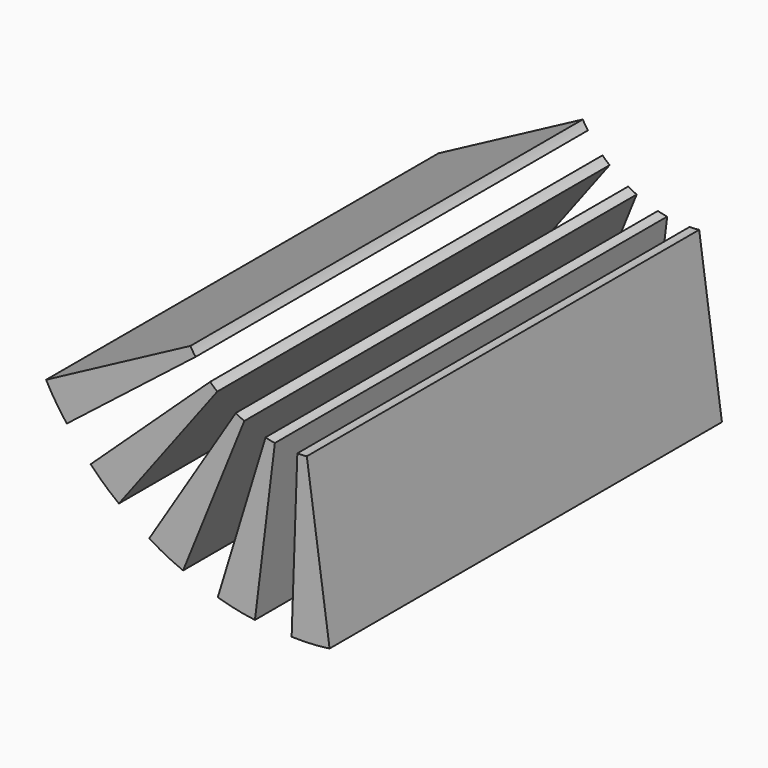
from build123d import *

# Parameters (mm, degrees)
BOX001027018_W               = 2
BOX001027018_H               = 20
BOX001027018_DEPTH           = 13
CYLINDER080_R                = 2
CYLINDER080_DEPTH            = 26
CYLINDER080_ROLL_ANGLE       = 90
CYLINDER081_R                = 8
CYLINDER081_DEPTH            = 18
CYLINDER081_ROLL_ANGLE       = 90
BOX001027017_W               = 13
BOX001027017_H               = 20
BOX001027017_DEPTH           = 2
BOX001027017_PLACEMENT_ANGLE = 80
COMMON024_PITCH_ANGLE        = 10
COMMON025_PLACEMENT_ANGLE    = 25
COMMON026_PITCH_ANGLE        = -20
COMMON027_PITCH_ANGLE        = -35
COMMON023_PITCH_ANGLE        = -5
FUSION086_PLACEMENT_ANGLE    = 207


with BuildPart() as cube038:
    # Box001027018 → Box001027018 (new body)
    with BuildSketch(Plane(origin=(0, -10, 0), x_dir=(1, 0, 0), z_dir=(0, 0, 1))):
        with Locations((1, 10)):
            Rectangle(BOX001027018_W, BOX001027018_H)
    extrude(amount=BOX001027018_DEPTH)


with BuildPart() as cylinder080:
    # Cylinder080 → Cylinder080 (new body)
    with BuildSketch(Plane.XY):
        Circle(CYLINDER080_R)
    extrude(amount=CYLINDER080_DEPTH)


with BuildPart() as cylinder080_1:
    # Cylinder080 roll: moved
    add(cylinder080.part.rotate(Axis((0, 0, 0), (1, 0, 0)), CYLINDER080_ROLL_ANGLE))


with BuildPart() as cylinder080_2:
    # Cylinder080 placement: moved
    add(cylinder080_1.part.moved(Location((0, 12, 0))))


with BuildPart() as cut044:
    # Cylinder081 → Cylinder081 (new body)
    with BuildSketch(Plane.XY):
        Circle(CYLINDER081_R)
    extrude(amount=CYLINDER081_DEPTH)


with BuildPart() as cut044_1:
    # Cylinder081 roll: moved
    add(cut044.part.rotate(Axis((0, 0, 0), (1, 0, 0)), CYLINDER081_ROLL_ANGLE))


with BuildPart() as cut044_2:
    # Cylinder081 placement: moved
    add(cut044_1.part.moved(Location((0, 9, 0))))

    # Cut044: cut Cylinder080
    add(cylinder080_2.part, mode=Mode.SUBTRACT)


with BuildPart() as cube037:
    # Box001027017 → Box001027017 (new body)
    with BuildSketch(Plane.XY):
        with Locations((6.5, 10)):
            Rectangle(BOX001027017_W, BOX001027017_H)
    extrude(amount=BOX001027017_DEPTH)


with BuildPart() as cube037_1:
    # Box001027017 placement: moved
    add(cube037.part.moved(Location((0, -10, 0))).rotate(Axis((0, -10, 0), (0, -1, 0)), BOX001027017_PLACEMENT_ANGLE))


with BuildPart() as common024:
    # Common024 base: copy of Cube037
    add(cube037_1.part)

    # Common024: intersect Cube038, Cut044
    add(cube038.part, mode=Mode.INTERSECT)
    add(cut044_2.part, mode=Mode.INTERSECT)


with BuildPart() as common024_1:
    # Common024 pitch: moved
    add(common024.part.rotate(Axis((0, 0, 0), (0, 1, 0)), COMMON024_PITCH_ANGLE))


with BuildPart() as common024_2:
    # Common024 placement: moved
    add(common024_1.part.moved(Location((0.647048, 0, 2.414815))))


with BuildPart() as common025:
    # Common025 base: copy of Cube037
    add(cube037_1.part)

    # Common025: intersect Cube038, Cut044
    add(cube038.part, mode=Mode.INTERSECT)
    add(cut044_2.part, mode=Mode.INTERSECT)


with BuildPart() as common025_1:
    # Common025 placement: moved
    add(common025.part.moved(Location((1.25, 0, 2.165064))).rotate(Axis((1.25, 0, 2.165064), (0, 1, 0)), COMMON025_PLACEMENT_ANGLE))


with BuildPart() as common026:
    # Common026 base: copy of Cube037
    add(cube037_1.part)

    # Common026: intersect Cube038, Cut044
    add(cube038.part, mode=Mode.INTERSECT)
    add(cut044_2.part, mode=Mode.INTERSECT)


with BuildPart() as common026_1:
    # Common026 pitch: moved
    add(common026.part.rotate(Axis((0, 0, 0), (0, 1, 0)), COMMON026_PITCH_ANGLE))


with BuildPart() as common026_2:
    # Common026 placement: moved
    add(common026_1.part.moved(Location((-0.647048, 0, 2.414815))))


with BuildPart() as common027:
    # Common027 base: copy of Cube037
    add(cube037_1.part)

    # Common027: intersect Cube038, Cut044
    add(cube038.part, mode=Mode.INTERSECT)
    add(cut044_2.part, mode=Mode.INTERSECT)


with BuildPart() as common027_1:
    # Common027 pitch: moved
    add(common027.part.rotate(Axis((0, 0, 0), (0, 1, 0)), COMMON027_PITCH_ANGLE))


with BuildPart() as common027_2:
    # Common027 placement: moved
    add(common027_1.part.moved(Location((-1.25, 0, 2.165064))))


with BuildPart() as strength_slots005:
    # Common023 base: copy of Cube037
    add(cube037_1.part)

    # Common023: intersect Cube038, Cut044
    add(cube038.part, mode=Mode.INTERSECT)
    add(cut044_2.part, mode=Mode.INTERSECT)


with BuildPart() as strength_slots005_1:
    # Common023 pitch: moved
    add(strength_slots005.part.rotate(Axis((0, 0, 0), (0, 1, 0)), COMMON023_PITCH_ANGLE))


with BuildPart() as strength_slots005_2:
    # Common023 placement: moved
    add(strength_slots005_1.part.moved(Location((0, 0, 2.5))))

    # Fusion086: union Common024, Common025, Common026, Common027
    add(common024_2.part)
    add(common025_1.part)
    add(common026_2.part)
    add(common027_2.part)


with BuildPart() as strength_slots005_3:
    # Fusion086 placement: moved
    add(strength_slots005_2.part.moved(Location((55, 0, -26))).rotate(Axis((55, 0, -26), (0, 1, 0)), FUSION086_PLACEMENT_ANGLE))


solid = strength_slots005_3.part
